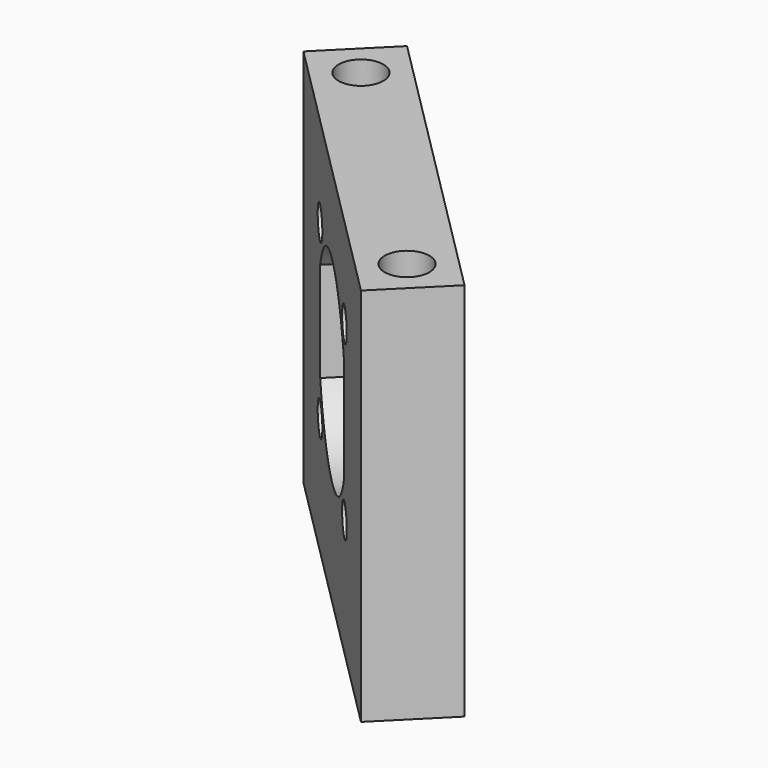
from build123d import *

# Parameters (mm, degrees)
SKETCH023_W             = 30
SKETCH023_H             = 6
PAD018_DEPTH            = 28
SKETCH024_R             = 11.25
POCKET_DEPTH            = 3
SKETCH025_R             = 1.2
POCKET005_DEPTH         = 3
SKETCH026_R             = 1.65
POCKET006_DEPTH         = 7
SKETCH027_R             = 1.65
POCKET007_DEPTH         = 8
BODY017_PLACEMENT_ANGLE = 45


with BuildPart() as part:
    # Sketch023 → Pad018 (new body)
    with BuildSketch(Plane.XY):
        Rectangle(SKETCH023_W, SKETCH023_H)
    extrude(amount=PAD018_DEPTH)

    # Sketch024 (on Face4 of Pad018) → Pocket (cut)
    with BuildSketch(Plane(origin=(0, 3, 0), x_dir=(-1, 0, 0), z_dir=(0, 1, 0))):
        with Locations((0, 15)):
            Circle(SKETCH024_R)
    extrude(amount=-POCKET_DEPTH, mode=Mode.SUBTRACT)

    # Sketch025 (on Face8 of Pocket) → Pocket005 (cut)
    with BuildSketch(Plane(origin=(0, 0, 0), x_dir=(-1, 0, 0), z_dir=(0, 1, 0))):
        with Locations((6.363961, 8.636039)):
            Circle(SKETCH025_R)
        with Locations((6.363961, 21.363961)):
            Circle(SKETCH025_R)
        with Locations((-6.363961, 21.363961)):
            Circle(SKETCH025_R)
        with Locations((-6.363961, 8.636039)):
            Circle(SKETCH025_R)
        with BuildLine():
            Line((-6.25, 18.674235), (-6.25, 11.325765))
            ThreePointArc((-6.25, 11.325765), (0, 7.75), (6.25, 11.325765))
            Line((6.25, 18.674235), (6.25, 11.325765))
            ThreePointArc((6.25, 18.674235), (0, 22.25), (-6.25, 18.674235))
        make_face()
    extrude(amount=-POCKET005_DEPTH, mode=Mode.SUBTRACT)

    # Sketch026 (on Face5 of Pocket005) → Pocket006 (cut)
    with BuildSketch(Plane.XY.offset(28)):
        with Locations((-12, 0)):
            Circle(SKETCH026_R)
        with Locations((12, 0)):
            Circle(SKETCH026_R)
    extrude(amount=-POCKET006_DEPTH, mode=Mode.SUBTRACT)

    # Sketch027 (on Face4 of Pocket006) → Pocket007 (cut)
    with BuildSketch(Plane(origin=(0, 0, 0), x_dir=(1, 0, 0), z_dir=(0, 0, -1))):
        with Locations((-12, 0)):
            Circle(SKETCH027_R)
        with Locations((12, 0)):
            Circle(SKETCH027_R)
    extrude(amount=-POCKET007_DEPTH, mode=Mode.SUBTRACT)


with BuildPart() as part_1:
    # Body017 placement: moved
    add(part.part.moved(Location((-58.5, -58.5, 2))).rotate(Axis((-58.5, -58.5, 2), (0, 0, -1)), BODY017_PLACEMENT_ANGLE))


solid = part_1.part
